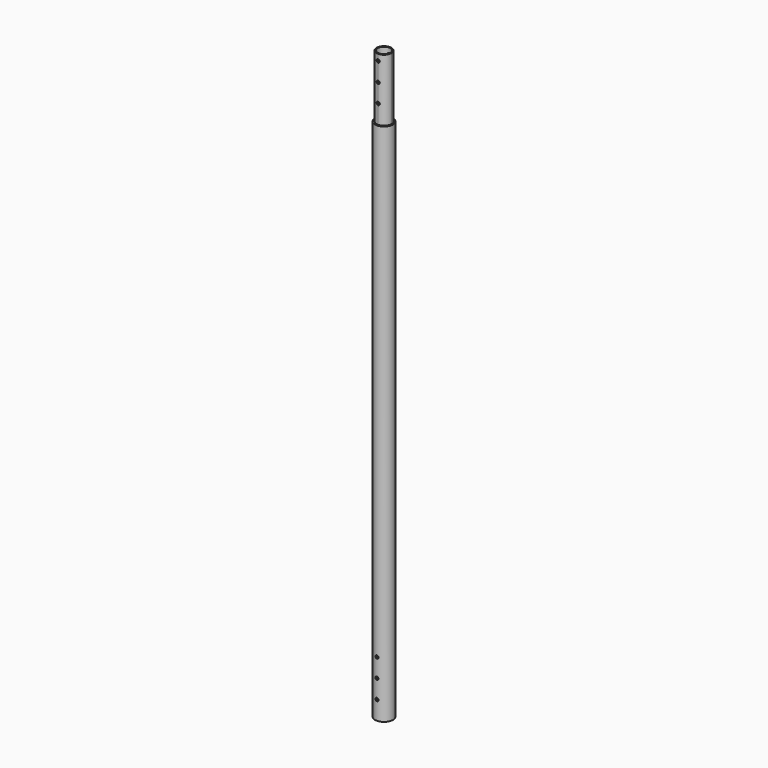
from build123d import *

# Parameters (mm, degrees)
F0_R           = 36.5125
F0_R_2         = 30.1625
F1_DEPTH       = 2133.6
F4_R           = 6.35
F5_DEPTH       = 50.8
F5_DEPTH_BACK  = 50.8
F7_R           = 25.4
F8_DEPTH       = 25.4
F8_DEPTH_BACK  = 254
F9_R           = 6.35
F10_DEPTH      = 50.8
F10_DEPTH_BACK = 50.8


with BuildPart() as f1:
    # F0 (on Top) → F1 (new body)
    with BuildSketch(Plane.XY):
        Circle(F0_R)
        Circle(F0_R_2, mode=Mode.SUBTRACT)
    extrude(amount=F1_DEPTH)

    # F4 (on line) → F5 (cut, two sides)
    with BuildSketch(Plane(origin=(0, 0, 0), x_dir=(-1, 0, 0), z_dir=(0, 1, 0))) as f5_sk:
        with Locations((0, 76.2)):
            Circle(F4_R)
        with Locations((0, 152.4)):
            Circle(F4_R)
        with Locations((0, 228.6)):
            Circle(F4_R)
    extrude(amount=-F5_DEPTH, mode=Mode.SUBTRACT)
    extrude(f5_sk.sketch, amount=F5_DEPTH_BACK, mode=Mode.SUBTRACT)

    # F7 (on face) → F8 (join, two sides)
    with BuildSketch(Plane.XY.offset(2133.6)) as f8_sk:
        with BuildLine():
            ThreePointArc((30.1625, 0), (21.3303532334, 21.3258631053), (0.00635, 30.1624993316))
            ThreePointArc((0.00635, 30.1624993316), (-30.1498, 0), (0.00635, -30.1624993316))
            ThreePointArc((0.00635, -30.1624993316), (21.3303532334, -21.3258631053), (30.1625, 0))
        make_face()
        Circle(F7_R, mode=Mode.SUBTRACT)
    extrude(amount=-F8_DEPTH)
    extrude(f8_sk.sketch, amount=F8_DEPTH_BACK)

    # F9 (on Front) → F10 (cut, two sides)
    with BuildSketch(Plane.XZ) as f10_sk:
        with Locations((0, 2209.8)):
            Circle(F9_R)
        with Locations((0, 2286)):
            Circle(F9_R)
        with Locations((0, 2362.2)):
            Circle(F9_R)
    extrude(amount=-F10_DEPTH, mode=Mode.SUBTRACT)
    extrude(f10_sk.sketch, amount=F10_DEPTH_BACK, mode=Mode.SUBTRACT)


solid = f1.part
